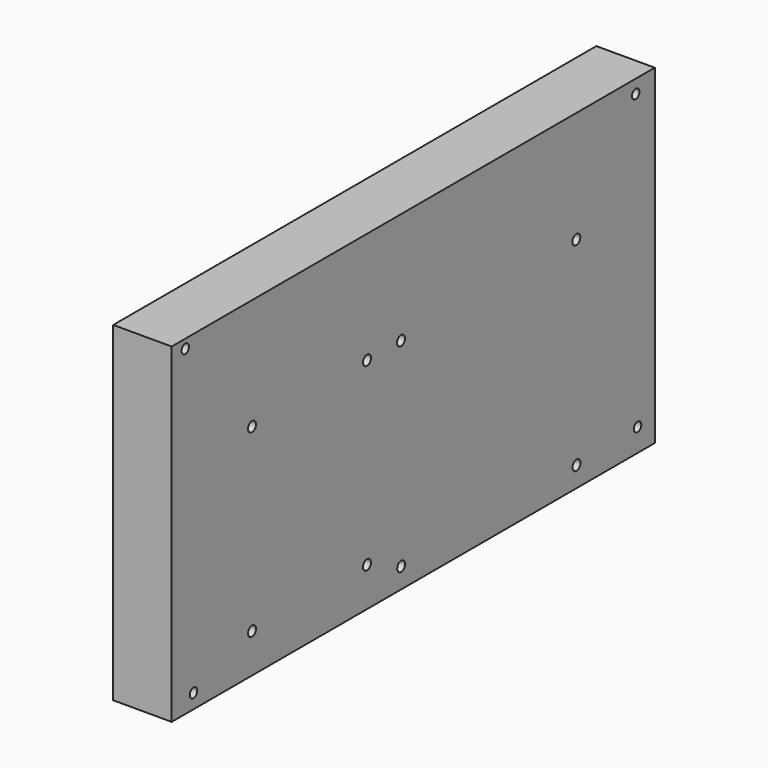
from build123d import *

# Parameters (mm, degrees)
F0_W     = 262.433231
F0_H     = 143.624164
F0_R     = 2.032
F0_R_2   = 2.159
F1_DEPTH = 25.4


with BuildPart() as f1:
    # F0 (on Right) → F1 (new body)
    with BuildSketch(Plane.YZ):
        with Locations((53.685457, -5.467344)):
            Rectangle(F0_W, F0_H)
        with Locations((-65.664113, -70.984699)):
            Circle(F0_R, mode=Mode.SUBTRACT)
        with Locations((-33.897583, -60.282462)):
            Circle(F0_R_2, mode=Mode.SUBTRACT)
        with Locations((47.141639, -68.418872)):
            Circle(F0_R_2, mode=Mode.SUBTRACT)
        with Locations((28.569087, -60.277043)):
            Circle(F0_R_2, mode=Mode.SUBTRACT)
        with Locations((142.391632, -68.456784)):
            Circle(F0_R_2, mode=Mode.SUBTRACT)
        with Locations((175.537544, -67.300248)):
            Circle(F0_R, mode=Mode.SUBTRACT)
        with Locations((-33.897511, 17.949538)):
            Circle(F0_R_2, mode=Mode.SUBTRACT)
        with Locations((28.586489, 17.954956)):
            Circle(F0_R_2, mode=Mode.SUBTRACT)
        with Locations((47.042011, 17.94107)):
            Circle(F0_R_2, mode=Mode.SUBTRACT)
        with Locations((-70.136527, 62.497376)):
            Circle(F0_R, mode=Mode.SUBTRACT)
        with Locations((142.292004, 17.903158)):
            Circle(F0_R_2, mode=Mode.SUBTRACT)
        with Locations((174.517364, 60.502738)):
            Circle(F0_R, mode=Mode.SUBTRACT)
    extrude(amount=F1_DEPTH)


solid = f1.part
